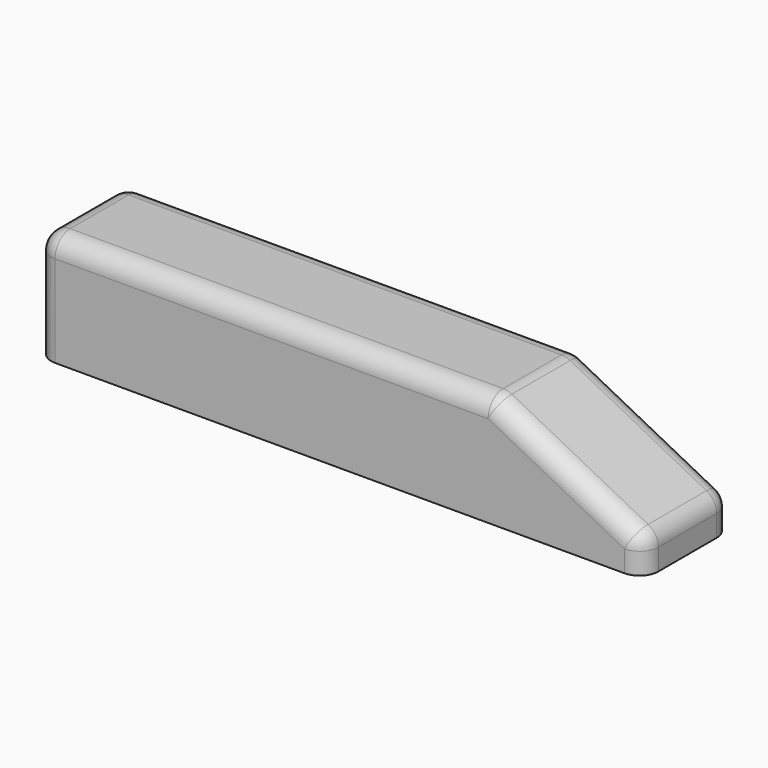
from build123d import *

# Parameters (mm, degrees)
PAD_DEPTH = 11.75
FILLET_R  = 2


with BuildPart() as part:
    # Sketch (on XZ_Plane of Origin) → Pad (new body)
    with BuildSketch(Plane.XZ):
        Polygon((-32.25, 5.875), (-32.25, -5.875), (32.25, -5.875), (32.25, -2.375), (16.25, 5.875), align=None)
    extrude(amount=PAD_DEPTH)

    # Fillet
    fillet_edges = [part.edges().sort_by_distance(p)[0] for p in [
        (32.25, 0, -4.125),
        (32.25, -11.75, -4.125),
        (32.25, -5.875, -2.375),
        (24.25, -11.75, 1.75),
        (24.25, 0, 1.75),
        (16.25, -5.875, 5.875),
        (-8, -11.75, 5.875),
        (-8, 0, 5.875),
        (-32.25, 0, 0),
        (-32.25, -5.875, 5.875),
        (-32.25, -11.75, 0),
    ]]
    fillet(fillet_edges, radius=FILLET_R)


solid = part.part
